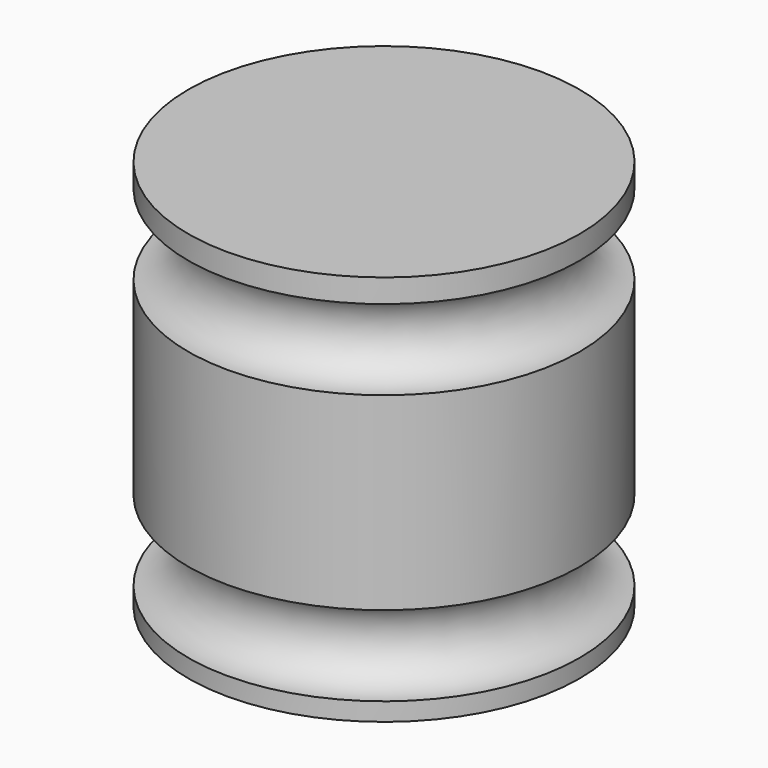
from build123d import *


with BuildPart() as f1:
    # F0 (on Front) → F1 (revolve)
    with BuildSketch(Plane.XZ):
        with BuildLine():
            Line((-25.4, 0), (0, 0))
            Line((0, 0), (0, 2.353889))
            ThreePointArc((0, 2.353889), (-5.207, 7.560889), (0, 12.767889))
            Line((0, 12.767889), (0, 37.337104))
            ThreePointArc((0, 37.337104), (-5.207, 42.544104), (0, 47.751104))
            Line((0, 47.751104), (0, 50.8))
            Line((0, 50.8), (-25.4, 50.8))
            Line((-25.4, 50.8), (-25.4, 0))
        make_face()
    revolve(axis=Axis((-25.4, 0, 25.4), (0, 0, 1)))


solid = f1.part
